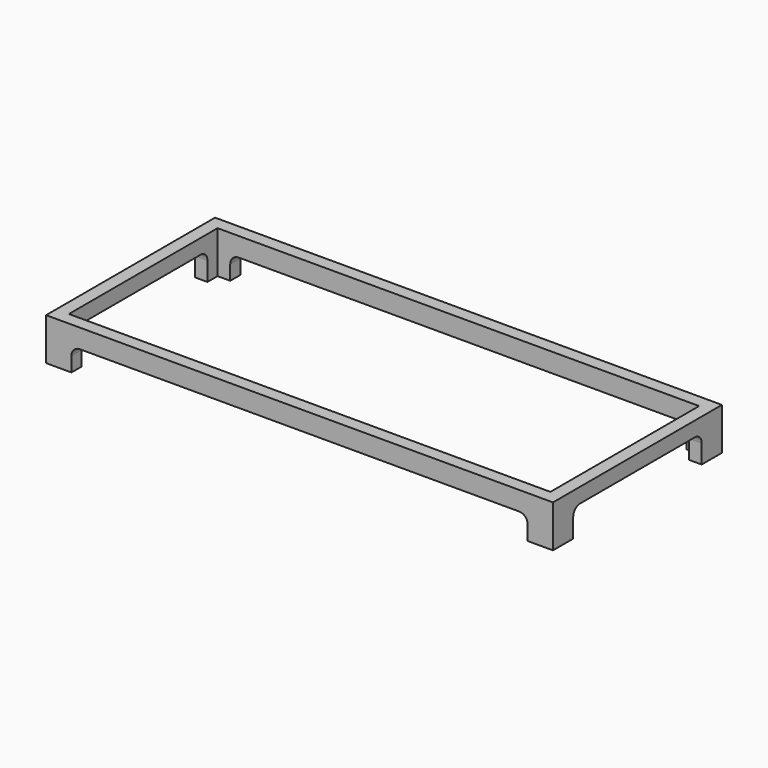
from build123d import *

# Parameters (mm, degrees)
F0_W     = 1200
F0_H     = 500
F0_W_2   = 1140
F0_H_2   = 440
F1_DEPTH = 100
F3_DEPTH = 500.001
F5_DEPTH = 1200.001


with BuildPart() as f1:
    # F0 (on Top) → F1 (new body)
    with BuildSketch(Plane.XY):
        with Locations((600, 250)):
            Rectangle(F0_W, F0_H)
        with Locations((600, 250)):
            Rectangle(F0_W_2, F0_H_2, mode=Mode.SUBTRACT)
    extrude(amount=F1_DEPTH)

    # F2 (on face) → F3 (cut, through all)
    with BuildSketch(Plane.XZ):
        with BuildLine():
            Line((60, 35), (60, 0))
            Line((60, 0), (1140, 0))
            Line((1140, 0), (1140, 35))
            ThreePointArc((1140, 35), (1134.142136, 49.142136), (1120, 55))
            Line((1120, 55), (80, 55))
            ThreePointArc((80, 55), (65.857864, 49.142136), (60, 35))
        make_face()
    extrude(amount=-F3_DEPTH, mode=Mode.SUBTRACT)

    # F4 (on face) → F5 (cut, through all)
    with BuildSketch(Plane(origin=(0, 0, 0), x_dir=(0, -1, 0), z_dir=(-1, 0, 0))):
        with BuildLine():
            Line((-440, 45), (-440, 0))
            Line((-440, 0), (-60, 0))
            Line((-60, 0), (-60, 45))
            ThreePointArc((-60, 45), (-65.857864, 59.142136), (-80, 65))
            Line((-80, 65), (-420, 65))
            ThreePointArc((-420, 65), (-434.142136, 59.142136), (-440, 45))
        make_face()
    extrude(amount=-F5_DEPTH, mode=Mode.SUBTRACT)


solid = f1.part
